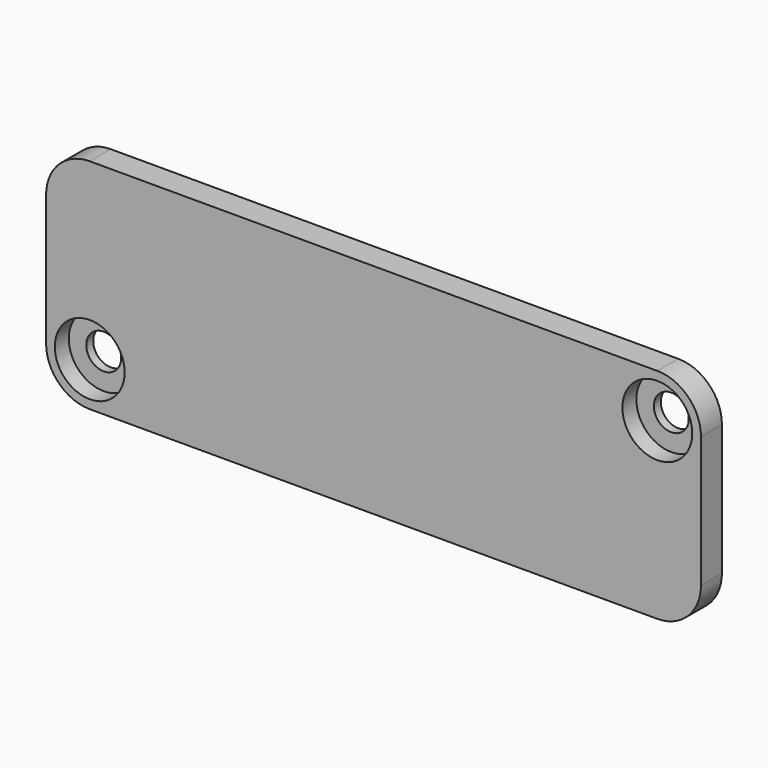
from build123d import *

# Parameters (mm, degrees)
F0_R     = 2
F1_DEPTH = 3
F2_R     = 4
F3_DEPTH = 2


with BuildPart() as f1:
    # F0 (on Front) → F1 (new body)
    with BuildSketch(Plane.XZ):
        with BuildLine():
            ThreePointArc((0, 5), (1.464466, 1.464466), (5, 0))
            Line((5, 0), (70, 0))
            ThreePointArc((70, 0), (73.535534, 1.464466), (75, 5))
            Line((75, 5), (75, 20))
            ThreePointArc((75, 20), (73.535534, 23.535534), (70, 25))
            Line((70, 25), (5, 25))
            ThreePointArc((5, 25), (1.464466, 23.535534), (0, 20))
            Line((0, 20), (0, 5))
        make_face()
        with Locations((5, 5)):
            Circle(F0_R, mode=Mode.SUBTRACT)
        with Locations((70, 20)):
            Circle(F0_R, mode=Mode.SUBTRACT)
    extrude(amount=F1_DEPTH)

    # F2 (on face) → F3 (cut)
    with BuildSketch(Plane.XZ.offset(3)):
        with Locations((5, 5)):
            Circle(F2_R)
        with Locations((70, 20)):
            Circle(F2_R)
    extrude(amount=-F3_DEPTH, mode=Mode.SUBTRACT)


solid = f1.part
